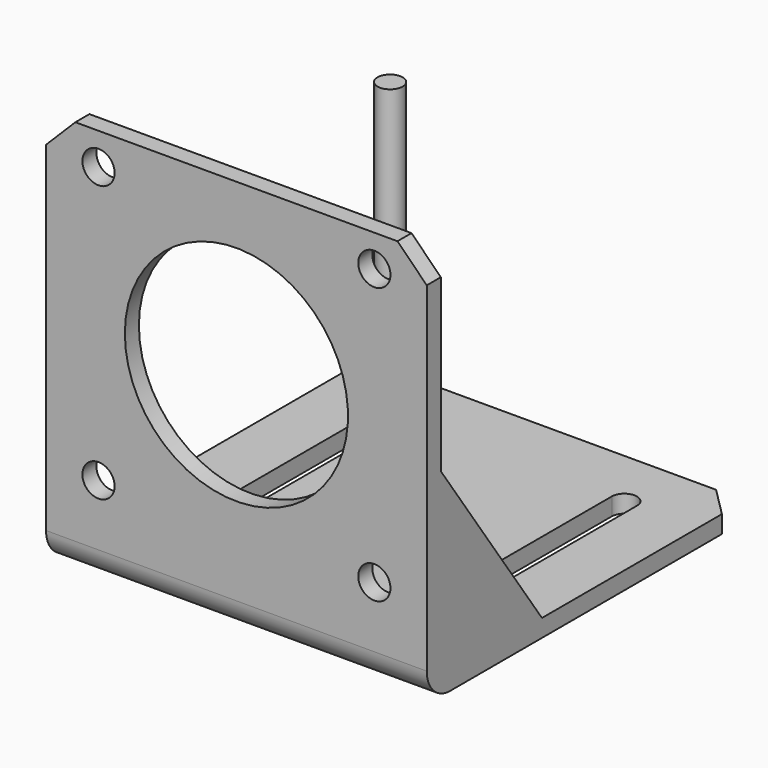
from build123d import *

# Parameters (mm, degrees)
F0_W      = 65
F0_H      = 65
F1_DEPTH  = 3
F0_H_2    = 3
F2_DEPTH  = 68
F3_R      = 5
F4_SIZE   = 5
F6_D      = 5.5
F5_R      = 19.05
F7_DEPTH  = 25
F9_DEPTH  = 3
F10_SIZE  = 5
F12_DEPTH = 25
F13_DEPTH = 50


with BuildPart() as f1:
    # F0 (on Top) → F1 (new body)
    with BuildSketch(Plane.XY):
        with Locations((32.5, 32.5)):
            Rectangle(F0_W, F0_H)
    extrude(amount=F1_DEPTH)

    # F0 (on Top) → F2 (join)
    with BuildSketch(Plane.XY):
        with Locations((32.5, -1.5)):
            Rectangle(F0_W, F0_H_2)
    extrude(amount=F2_DEPTH)

    # F3
    f3_edges = [f1.edges().sort_by_distance(p)[0] for p in [
        (32.5, -3, 0),
    ]]
    fillet(f3_edges, radius=F3_R)

    # F4
    f4_edges = [f1.edges().sort_by_distance(p)[0] for p in [
        (65, -1.5, 68),
        (0, -1.5, 68),
    ]]
    chamfer(f4_edges, length=F4_SIZE)

    # F6 (through all)
    with Locations(Plane(origin=(0, 0, 0), x_dir=(-1, 0, 0), z_dir=(0, 1, 0))):
        with Locations((-56.05, 62.55), (-8.95, 62.55), (-8.95, 15.45), (-56.05, 15.45)):
            Hole(F6_D / 2)

    # F5 (on face) → F7 (cut)
    with BuildSketch(Plane(origin=(0, 0, 0), x_dir=(-1, 0, 0), z_dir=(0, 1, 0))):
        with Locations((-32.5, 39)):
            Circle(F5_R)
    extrude(amount=-F7_DEPTH, mode=Mode.SUBTRACT)

    # F8 (on face) → F9 (join)
    with BuildSketch(Plane.YZ.offset(65)):
        Polygon((21.588552, 3), (0, 33.831648), (0, 3), align=None)
    extrude(amount=-F9_DEPTH)

    # F10
    f10_edges = [f1.edges().sort_by_distance(p)[0] for p in [
        (65, 65, 1.5),
        (0, 65, 1.5),
    ]]
    chamfer(f10_edges, length=F10_SIZE)

    # F11 (on face) → F12 (cut)
    with BuildSketch(Plane.XY.offset(3)):
        with BuildLine():
            Line((14.65, 13.1), (14.65, 54.8))
            ThreePointArc((14.65, 54.8), (12.5, 52.65), (10.35, 54.8))
            Line((10.35, 54.8), (10.35, 13.1))
            ThreePointArc((10.35, 13.1), (12.5, 15.25), (14.65, 13.1))
        make_face()
        with BuildLine():
            ThreePointArc((54.65, 54.8), (52.5, 52.65), (50.35, 54.8))
            Line((50.35, 54.8), (50.35, 13.1))
            ThreePointArc((50.35, 13.1), (52.5, 15.25), (54.65, 13.1))
            Line((54.65, 13.1), (54.65, 54.8))
        make_face()
        with BuildLine():
            ThreePointArc((54.65, 13.1), (52.5, 15.25), (50.35, 13.1))
            ThreePointArc((50.35, 13.1), (52.5, 10.95), (54.65, 13.1))
        make_face()
        with BuildLine():
            ThreePointArc((10.35, 13.1), (12.5, 10.95), (14.65, 13.1))
            ThreePointArc((14.65, 13.1), (12.5, 15.25), (10.35, 13.1))
        make_face()
        with BuildLine():
            ThreePointArc((54.65, 54.8), (52.5, 56.95), (50.35, 54.8))
            ThreePointArc((50.35, 54.8), (52.5, 52.65), (54.65, 54.8))
        make_face()
        with BuildLine():
            ThreePointArc((10.35, 54.8), (12.5, 52.65), (14.65, 54.8))
            ThreePointArc((14.65, 54.8), (12.5, 56.95), (10.35, 54.8))
        make_face()
    extrude(amount=-F12_DEPTH, mode=Mode.SUBTRACT)


with BuildPart() as f13:
    # F11 (on face) → F13 (new body)
    with BuildSketch(Plane.XY.offset(3)):
        with BuildLine():
            ThreePointArc((10.35, 54.8), (12.5, 52.65), (14.65, 54.8))
            ThreePointArc((14.65, 54.8), (12.5, 56.95), (10.35, 54.8))
        make_face()
    extrude(amount=F13_DEPTH)


solid = Compound([f1.part, f13.part])
